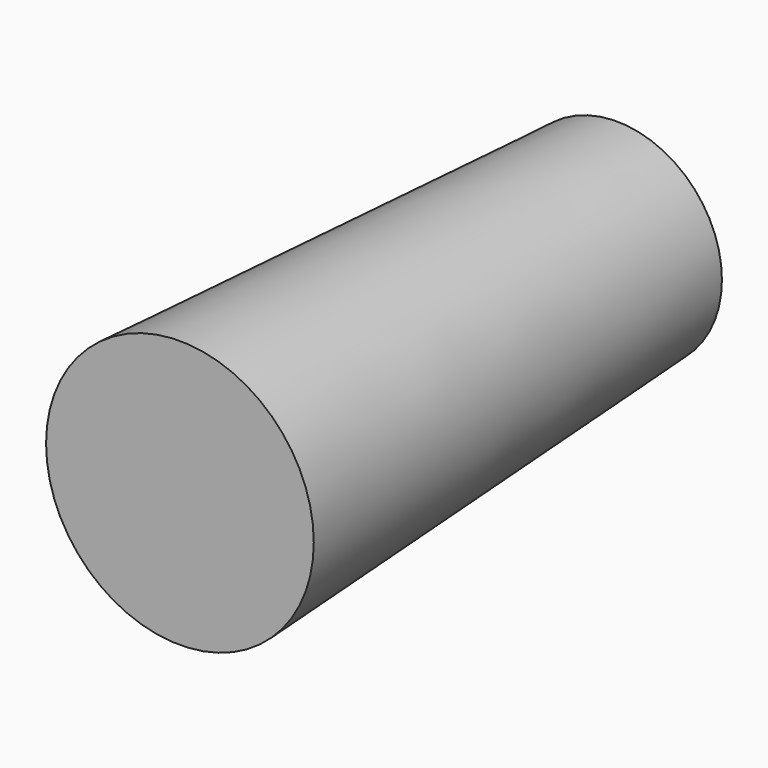
from build123d import *

# Parameters (mm, degrees)
F0_R     = 12.1422853868
F1_DEPTH = 62.992
F1_TAPER = -3


with BuildPart() as f1:
    # F0 (on Front) → F1 (new body)
    with BuildSketch(Plane.XZ):
        with Locations((-9.6051646397, 7.4280486442)):
            Circle(F0_R)
    extrude(amount=F1_DEPTH, taper=F1_TAPER)


solid = f1.part
